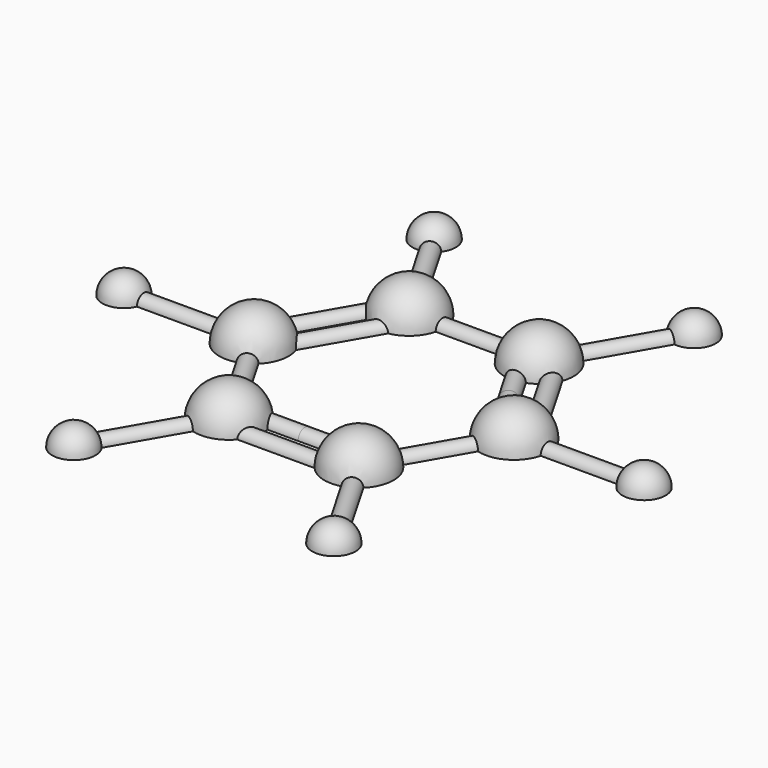
from build123d import *

# Parameters (mm, degrees)
F4_COUNT  = 6
F4_ANGLE  = 300
F7_COUNT  = 6
F7_ANGLE  = 300
F9_START  = 19.06116
F8_R      = 1.27
F9_DEPTH  = 20.52817
F10_COUNT = 6
F10_ANGLE = 300
F11_R     = 1.27
F12_DEPTH = 12.7
F13_COUNT = 3
F13_ANGLE = 240
F14_R     = 1.27
F15_DEPTH = 10.16
F16_COUNT = 3
F16_ANGLE = 240
F17_COUNT = 3
F17_ANGLE = 240
F18_R     = 45.1818058153
F19_DEPTH = 9.69853


with BuildPart() as f2:
    # F1 (on Top) → F2 (revolve)
    with BuildSketch(Plane.XY):
        with BuildLine():
            Line((-4.445, 16.4977839421), (-14.605, 16.4977839421))
            ThreePointArc((-14.605, 16.4977839421), (-9.525, 11.4177839421), (-4.445, 16.4977839421))
        make_face()
    revolve(axis=Axis((-9.525, 16.4977839421, 0), (-1, 0, 0)))


with BuildPart() as f4_1:
    # F4: instance of F2
    add(f2.part.rotate(Axis((0, 0, 12.7), (0, 0, -1)), 1 * F4_ANGLE / (F4_COUNT - 1)))


with BuildPart() as f4_2:
    # F4: instance of F2
    add(f2.part.rotate(Axis((0, 0, 12.7), (0, 0, -1)), 2 * F4_ANGLE / (F4_COUNT - 1)))



with BuildPart() as f4_3:
    # F4: instance of F2
    add(f2.part.rotate(Axis((0, 0, 12.7), (0, 0, -1)), 3 * F4_ANGLE / (F4_COUNT - 1)))


with BuildPart() as f4_4:
    # F4: instance of F2
    add(f2.part.rotate(Axis((0, 0, 12.7), (0, 0, -1)), 4 * F4_ANGLE / (F4_COUNT - 1)))


with BuildPart() as f4_5:
    # F4: instance of F2
    add(f2.part.rotate(Axis((0, 0, 12.7), (0, 0, -1)), 5 * F4_ANGLE / (F4_COUNT - 1)))


with BuildPart() as f6:
    # F5 (on Top) → F6 (revolve)
    with BuildSketch(Plane.XY):
        with BuildLine():
            Line((41.275, 0), (34.925, 0))
            ThreePointArc((34.925, 0), (38.1, -3.175), (41.275, 0))
        make_face()
    revolve(axis=Axis((38.1, 0, 0), (1, 0, 0)))


with BuildPart() as f7_1:
    # F7: instance of F6
    add(f6.part.rotate(Axis((0, 0, 12.7), (0, 0, 1)), 1 * F7_ANGLE / (F7_COUNT - 1)))


with BuildPart() as f7_2:
    # F7: instance of F6
    add(f6.part.rotate(Axis((0, 0, 12.7), (0, 0, 1)), 2 * F7_ANGLE / (F7_COUNT - 1)))


with BuildPart() as f7_3:
    # F7: instance of F6
    add(f6.part.rotate(Axis((0, 0, 12.7), (0, 0, 1)), 3 * F7_ANGLE / (F7_COUNT - 1)))


with BuildPart() as f7_4:
    # F7: instance of F6
    add(f6.part.rotate(Axis((0, 0, 12.7), (0, 0, 1)), 4 * F7_ANGLE / (F7_COUNT - 1)))


with BuildPart() as f7_5:
    # F7: instance of F6
    add(f6.part.rotate(Axis((0, 0, 12.7), (0, 0, 1)), 5 * F7_ANGLE / (F7_COUNT - 1)))


with BuildPart() as f4_2_1:
    add(f4_2.part)

    add(f6.part)  # F9 merges F6
    # F8 (on Right) → F9 (join)
    with BuildSketch(Plane.YZ.offset(F9_START)):
        Circle(F8_R)
    extrude(amount=F9_DEPTH)


with BuildPart() as f2_1:
    add(f2.part)

    add(f4_1.part)  # F10 merges F4_1

    add(f4_3.part)  # F10 merges F4_3

    add(f4_4.part)  # F10 merges F4_4

    add(f4_5.part)  # F10 merges F4_5

    add(f7_1.part)  # F10 merges F7_1

    add(f7_2.part)  # F10 merges F7_2

    add(f7_3.part)  # F10 merges F7_3

    add(f7_4.part)  # F10 merges F7_4

    add(f7_5.part)  # F10 merges F7_5
    # F10: F4_2 ×6 about axis
    f10_axis = Axis((0, 0, 12.7), (0, 0, 1))
    for i in range(1, F10_COUNT):
        add(f4_2_1.part.rotate(f10_axis, i * F10_ANGLE / (F10_COUNT - 1)))

    # F11 (on Right) → F12 (join, symmetric)
    with BuildSketch(Plane.YZ):
        with Locations((16.4973, 0)):
            Circle(F11_R)
    extrude(amount=F12_DEPTH, both=True)



with BuildPart() as f2_2:
    add(f2_1.part)

    add(f4_2_1.part)  # F13 merges F4_2
    # F13: F2 ×3 about axis
    f13_axis = Axis((0, 0, 12.7), (0, 0, 1))
    for i in range(1, F13_COUNT):
        add(f2_1.part.rotate(f13_axis, i * F13_ANGLE / (F13_COUNT - 1)))

    # F14 (on Right) → F15 (join, symmetric)
    with BuildSketch(Plane.YZ):
        with Locations((-14.4653, 0)):
            Circle(F14_R)
        with Locations((-18.5293, 0)):
            Circle(F14_R)
    extrude(amount=F15_DEPTH, both=True)

    # F16: F2 ×3 about axis
    f16_axis = Axis((0, 0, 12.7), (0, 0, 1))


with BuildPart() as f2_3:
    add(f2_2.part)
    for i in range(1, F16_COUNT):
        add(f2_2.part.rotate(f16_axis, i * F16_ANGLE / (F16_COUNT - 1)))

    # F17: F2 ×3 about axis
    f17_axis = Axis((0, 0, 12.7), (0, 0, 1))


with BuildPart() as f2_4:
    add(f2_3.part)
    for i in range(1, F17_COUNT):
        add(f2_3.part.rotate(f17_axis, i * F17_ANGLE / (F17_COUNT - 1)))

    # F18 (on Top) → F19 (cut)
    with BuildSketch(Plane.XY):
        Circle(F18_R)
    extrude(amount=-F19_DEPTH, mode=Mode.SUBTRACT)


solid = f2_4.part
